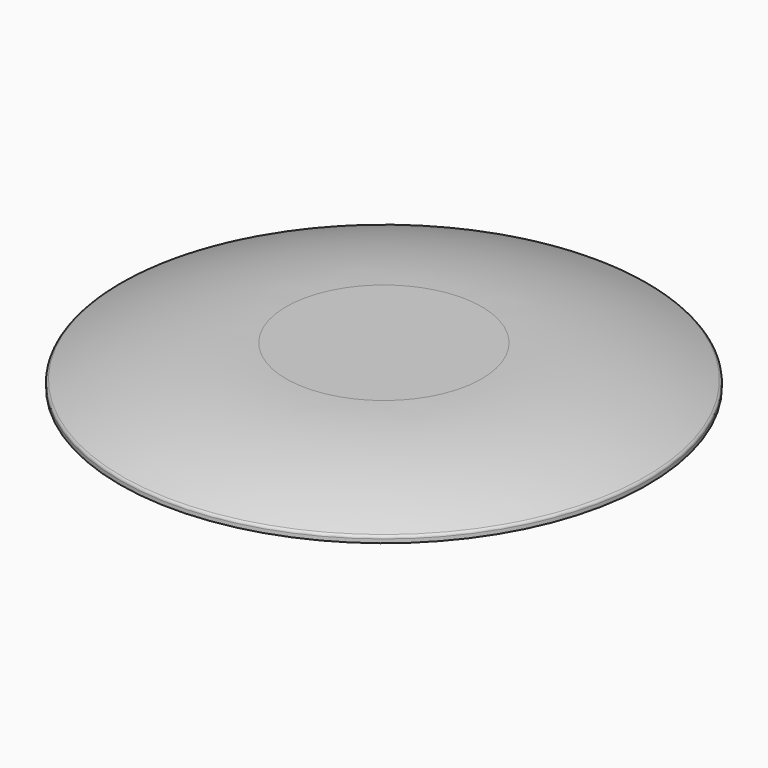
from build123d import *

# Parameters (mm, degrees)
F2_R = 1.6


with BuildPart() as f1:
    # F0 (on Right) → F1 (revolve)
    with BuildSketch(Plane.YZ):
        with BuildLine():
            Line((50, 0), (0, 0))
            Line((0, 0), (0, -5))
            Line((0, -5), (50, -5))
            ThreePointArc((50, -5), (64.713939, -6.259154), (79, -10))
            Line((79, -10), (79, -25))
            ThreePointArc((79, -25), (106.858996, -20.920755), (135, -20))
            Line((135, -20), (135, -17))
            ThreePointArc((135, -17), (93.341666, -4.291671), (50, 0))
        make_face()
    revolve(axis=Axis((0, 0, -2.5), (0, 0, 1)))

    # F2
    f2_edges = [f1.edges().sort_by_distance(p)[0] for p in [
        (0, -135, -17),
    ]]
    fillet(f2_edges, radius=F2_R)


solid = f1.part
